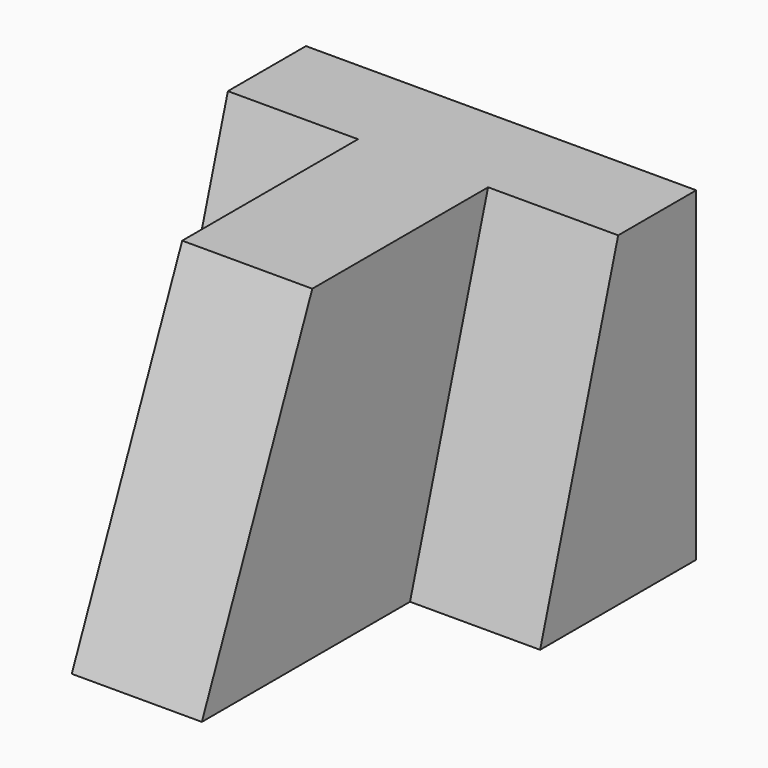
from build123d import *

# Parameters (mm, degrees)
F1_DEPTH = 31.75
F3_DEPTH = 12.7
F5_DEPTH = 12.7
F7_DEPTH = 12.7


with BuildPart() as f1:
    # F0 (on Top) → F1 (new body)
    with BuildSketch(Plane.XY):
        Polygon((0, 25.4), (0, 0), (12.7, 0), (12.7, 25.4), (25.4, 25.4), (25.4, 44.45), (-12.7, 44.45), (-12.7, 25.4), align=None)
    extrude(amount=-F1_DEPTH)

    # F2 (on face) → F3 (cut)
    with BuildSketch(Plane(origin=(-12.7, 0, 0), x_dir=(0, -1, 0), z_dir=(-1, 0, 0))):
        Polygon((-34.925, 0), (-25.4, -31.75), (-25.4, 0), align=None)
    extrude(amount=-F3_DEPTH, mode=Mode.SUBTRACT)

    # F4 (on face) → F5 (cut)
    with BuildSketch(Plane(origin=(0, 0, 0), x_dir=(0, -1, 0), z_dir=(-1, 0, 0))):
        Polygon((-13.476862, 0), (0, -31.75), (0, 0), align=None)
    extrude(amount=-F5_DEPTH, mode=Mode.SUBTRACT)

    # F6 (on face) → F7 (cut)
    with BuildSketch(Plane.YZ.offset(25.4)):
        Polygon((25.4, -31.75), (34.925, 0), (25.4, 0), align=None)
    extrude(amount=-F7_DEPTH, mode=Mode.SUBTRACT)


solid = f1.part
